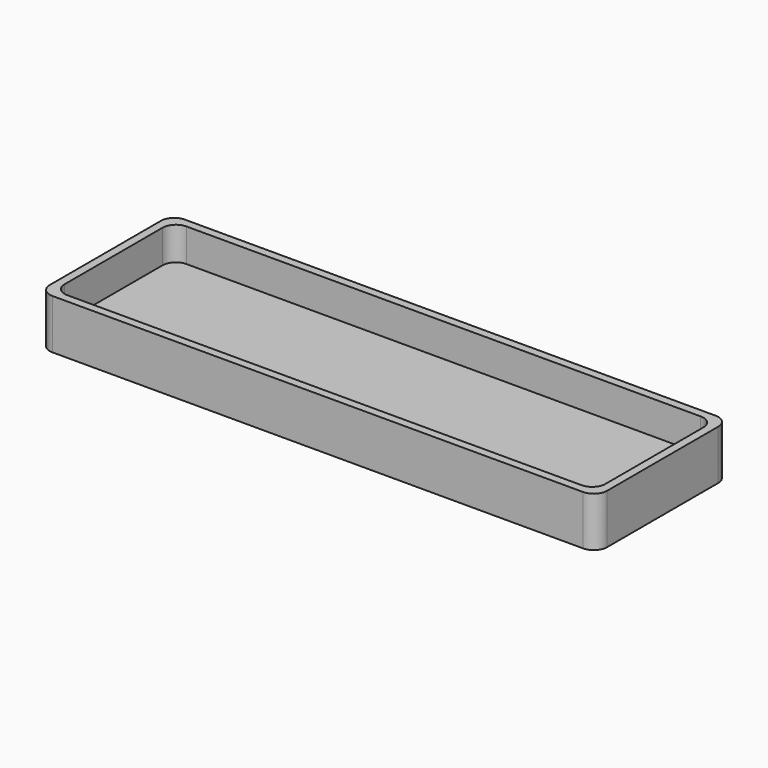
from build123d import *

# Parameters (mm, degrees)
F0_W     = 100.584
F0_H     = 25.4
F1_DEPTH = 3.175
F0_W_2   = 106.934
F0_H_2   = 31.75
F2_DEPTH = 9.525
F3_W     = 103.759
F3_H     = 28.575
F3_W_2   = 100.584
F3_H_2   = 25.4
F4_DEPTH = 6.35
F5_R     = 2.54


with BuildPart() as f1:
    # F0 (on Top) → F1 (new body)
    with BuildSketch(Plane.XY):
        with Locations((50.292, 12.7)):
            Rectangle(F0_W, F0_H)
    extrude(amount=F1_DEPTH)

    # F0 (on Top) → F2 (join)
    with BuildSketch(Plane.XY):
        with Locations((50.292, 12.7)):
            Rectangle(F0_W_2, F0_H_2)
        with Locations((50.292, 12.7)):
            Rectangle(F0_W, F0_H, mode=Mode.SUBTRACT)
    extrude(amount=F2_DEPTH)

    # F3 (on face) → F4 (cut)
    with BuildSketch(Plane.XY.offset(9.525)):
        with Locations((50.292, 12.7)):
            Rectangle(F3_W, F3_H)
        with Locations((50.292, 12.7)):
            Rectangle(F3_W_2, F3_H_2, mode=Mode.SUBTRACT)
    extrude(amount=-F4_DEPTH, mode=Mode.SUBTRACT)

    # F5
    f5_edges = [f1.edges().sort_by_distance(p)[0] for p in [
        (-1.5875, 26.9875, 6.35),
        (-1.5875, -1.5875, 6.35),
        (102.1715, -1.5875, 6.35),
        (102.1715, 26.9875, 6.35),
        (-3.175, -3.175, 4.7625),
        (103.759, -3.175, 4.7625),
        (103.759, 28.575, 4.7625),
        (-3.175, 28.575, 4.7625),
    ]]
    fillet(f5_edges, radius=F5_R)


solid = f1.part
